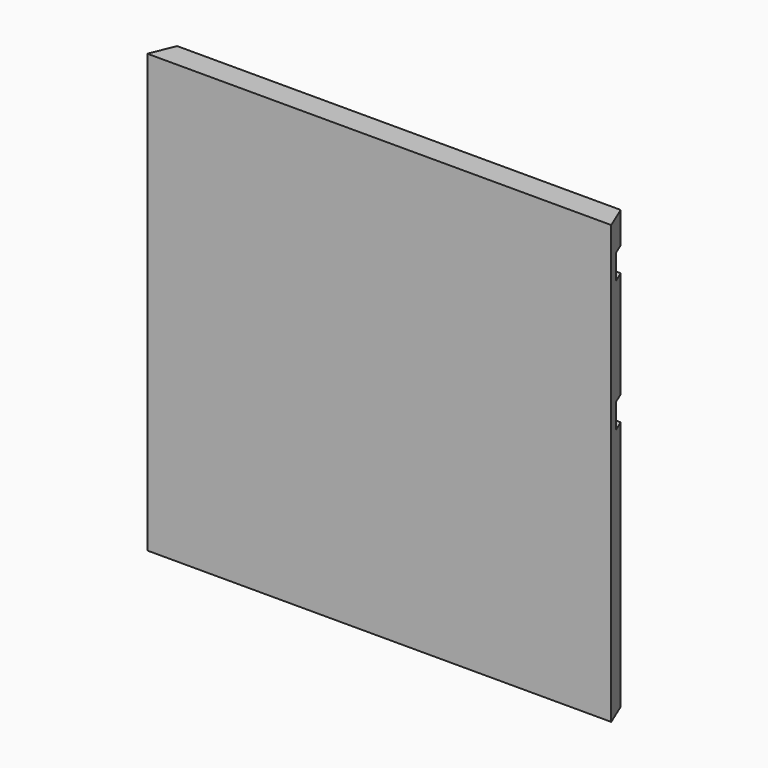
from build123d import *

# Parameters (mm, degrees)
F1_DEPTH = 133.35
F2_W     = 556
F2_H     = 15
F3_DEPTH = 7.5


with BuildPart() as f1:
    # F0 (on Top) → F1 (new body, symmetric)
    with BuildSketch(Plane.XY):
        Polygon((-142.2794159597, -11.8120698132), (128.1365840403, -11.8120698132), (134.3497874759, -11.8120698132), (128.1365840403, 3.1879301868), (108.9945, 3.1879301868), (-30.4355215827, 3.1879301868), (-35.2318651079, 3.1879301868), (-123.1373319193, 3.1879301868), (-142.2794159597, 3.1879301868), (-148.4926193953, -11.8120698132), align=None)
    extrude(amount=F1_DEPTH, both=True)

    # F2 (on face) → F3 (cut)
    with BuildSketch(Plane(origin=(0, 3.1879301868, 0), x_dir=(-1, 0, 0), z_dir=(0, 1, 0))):
        with Locations((5, 26.85)):
            Rectangle(F2_W, F2_H)
        with Locations((5, 106.85)):
            Rectangle(F2_W, F2_H)
    extrude(amount=-F3_DEPTH, mode=Mode.SUBTRACT)


solid = f1.part
